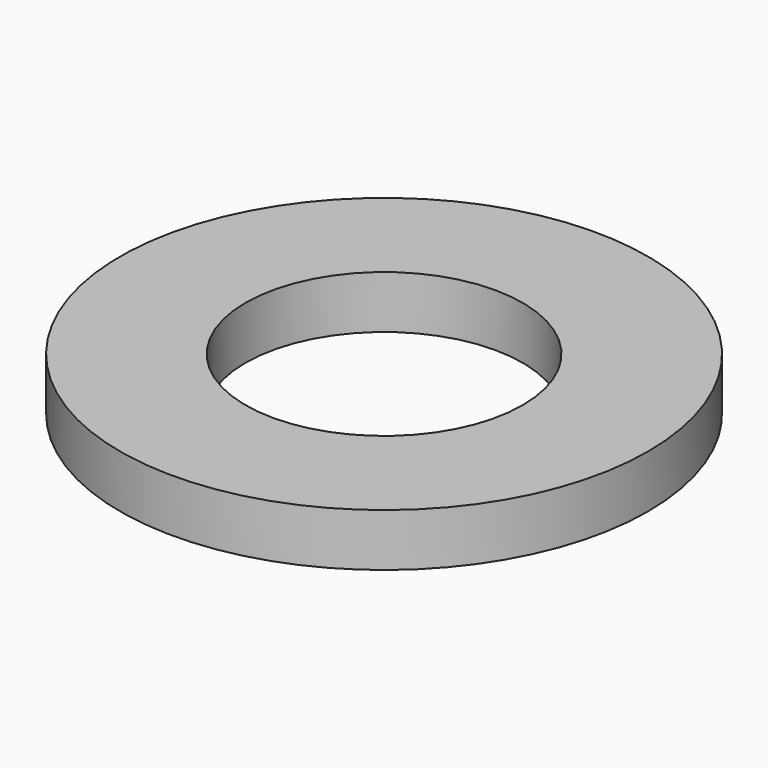
from build123d import *

# Parameters (mm, degrees)
SKETCH_R   = 8
SKETCH_R_2 = 4.2
PAD_DEPTH  = 1.6


with BuildPart() as part:
    # Sketch → Pad (new body)
    with BuildSketch(Plane.XY):
        Circle(SKETCH_R)
        Circle(SKETCH_R_2, mode=Mode.SUBTRACT)
    extrude(amount=PAD_DEPTH)


solid = part.part
